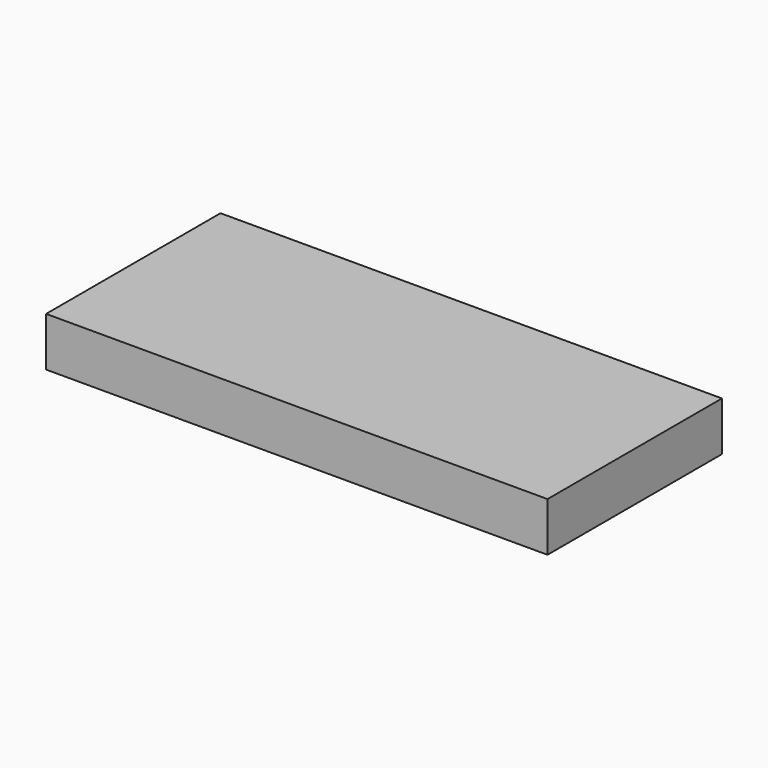
from build123d import *

# Parameters (mm, degrees)
SKETCH_W  = 276
SKETCH_H  = 120
PAD_DEPTH = 27


with BuildPart() as part:
    # Sketch → Pad (new body)
    with BuildSketch(Plane.XY):
        with Locations((138, 60)):
            Rectangle(SKETCH_W, SKETCH_H)
    extrude(amount=PAD_DEPTH)


solid = part.part
